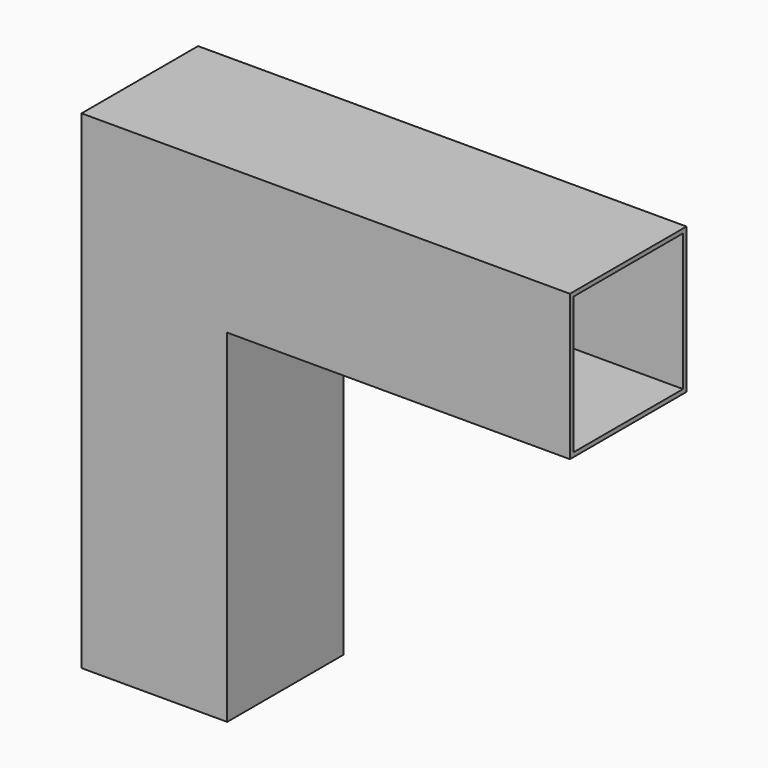
from build123d import *

# Parameters (mm, degrees)
F0_W     = 107.95
F0_H     = 107.95
F1_DEPTH = 254
F2_W     = 107.95
F2_H     = 107.95
F3_DEPTH = 254
F4_DEPTH = 107.95
F5_W     = 101.6
F5_H     = 101.6
F6_DEPTH = 203.2
F7_W     = 101.6
F7_H     = 101.6
F8_DEPTH = 203.2


with BuildPart() as f1:
    # F0 (on Top) → F1 (new body)
    with BuildSketch(Plane.XY):
        Rectangle(F0_W, F0_H)
    extrude(amount=F1_DEPTH)

    # F2 (on face) → F3 (join)
    with BuildSketch(Plane.YZ.offset(53.975)):
        with Locations((0, 200.025)):
            Rectangle(F2_W, F2_H)
    extrude(amount=F3_DEPTH)

    # F4 (add): a face of the model
    f4_faces = [f1.faces().sort_by_distance(p)[0] for p in [
        (0, 0, 0),
    ]]
    extrude(f4_faces, amount=F4_DEPTH)

    # F5 (on face) → F6 (cut)
    with BuildSketch(Plane(origin=(0, 0, -107.95), x_dir=(1, 0, 0), z_dir=(0, 0, -1))):
        Rectangle(F5_W, F5_H)
    extrude(amount=-F6_DEPTH, mode=Mode.SUBTRACT)

    # F7 (on face) → F8 (cut)
    with BuildSketch(Plane.YZ.offset(307.975)):
        with Locations((0, 200.025)):
            Rectangle(F7_W, F7_H)
    extrude(amount=-F8_DEPTH, mode=Mode.SUBTRACT)


solid = f1.part
